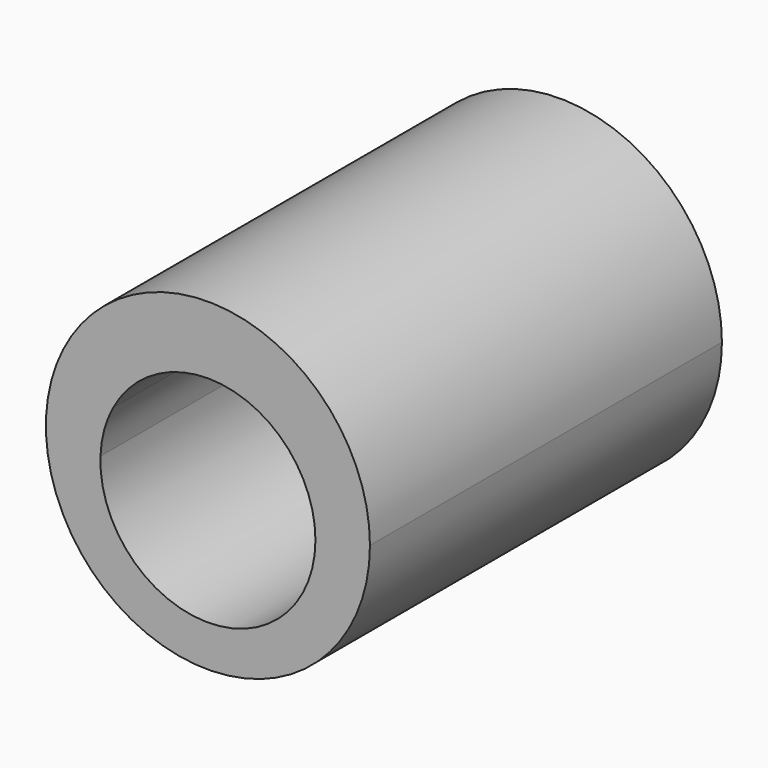
from build123d import *

# Parameters (mm, degrees)
F1_DEPTH = 140.44109


with BuildPart() as f1:
    # F0 (on Front) → F1 (new body)
    with BuildSketch(Plane.XZ):
        with BuildLine():
            ThreePointArc((103.810666, 143.386319), (32.674288, 191.324643), (14.945806, 107.3951))
            ThreePointArc((14.945806, 107.3951), (71.505356, 95.447996), (103.810666, 143.386319))
        make_face()
        with BuildLine():
            ThreePointArc((86.409816, 139.21912), (51.441955, 104.905241), (17.794287, 140.514622))
            ThreePointArc((17.794287, 140.514622), (18.97707, 148.241742), (21.87774, 155.50077))
            ThreePointArc((21.87774, 155.50077), (60.485759, 172.496293), (86.409816, 139.21912))
        make_face(mode=Mode.SUBTRACT)
    extrude(amount=F1_DEPTH)


solid = f1.part
